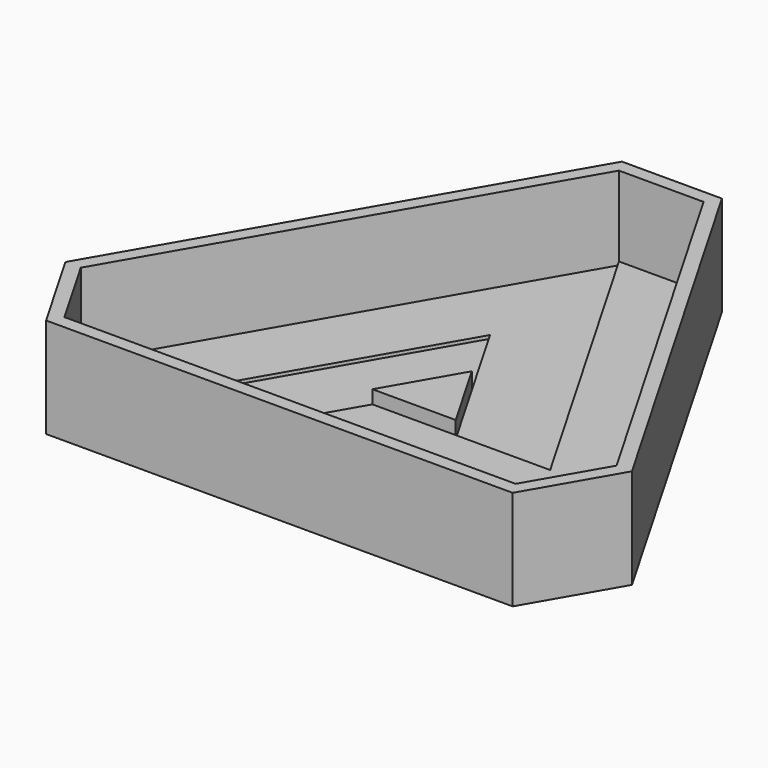
from build123d import *

# Parameters (mm, degrees)
F4_DEPTH  = 12
F6_DEPTH  = 10.4
F8_DEPTH  = 2.4
F10_DEPTH = 0.4
F12_DEPTH = 0.8


with BuildPart() as f4:
    # F3 (on Top) → F4 (new body)
    with BuildSketch(Plane.XY):
        Polygon((-28, -23.0940107676), (28, -23.0940107676), (34, -12.7017059222), (6, 35.7957166898), (-6, 35.7957166898), (-34, -12.7017059222), align=None)
    extrude(amount=F4_DEPTH)

    # F5 (on face) → F6 (cut)
    with BuildSketch(Plane.XY.offset(12)):
        Polygon((32.1524791386, -12.7017059222), (5.0762395693, 34.1957166898), (-5.0762395693, 34.1957166898), (-32.1524791386, -12.7017059222), (-27.0762395693, -21.4940107676), (27.0762395693, -21.4940107676), align=None)
    extrude(amount=-F6_DEPTH, mode=Mode.SUBTRACT)

    # F7 (on face) → F8 (join)
    with BuildSketch(Plane.XY.offset(1.6)):
        Polygon((-5, -2.8867513459), (5, -2.8867513459), (0, 5.7735026919), align=None)
    extrude(amount=F8_DEPTH)

    # F9 (on face) → F10 (join)
    with BuildSketch(Plane.XY.offset(1.6)):
        Polygon((0, 25.4034118443), (-5.0762395693, 34.1957166898), (-32.1524791386, -12.7017059222), (-27.0762395693, -21.4940107676), (-5.6666666667, 15.5884572681), align=None)
        Polygon((16.3333333333, -2.8867513459), (0, 25.4034118443), (-5.6666666667, 15.5884572681), (0, 5.7735026919), (5, -2.8867513459), align=None)
    extrude(amount=F10_DEPTH)

    # F11 (on face) → F12 (join)
    with BuildSketch(Plane.XY.offset(1.6)):
        Polygon((-10.6666666667, -12.7017059222), (32.1524791386, -12.7017059222), (5.0762395693, 34.1957166898), (-5.0762395693, 34.1957166898), (16.3333333333, -2.8867513459), (-5, -2.8867513459), align=None)
    extrude(amount=F12_DEPTH)


solid = f4.part
